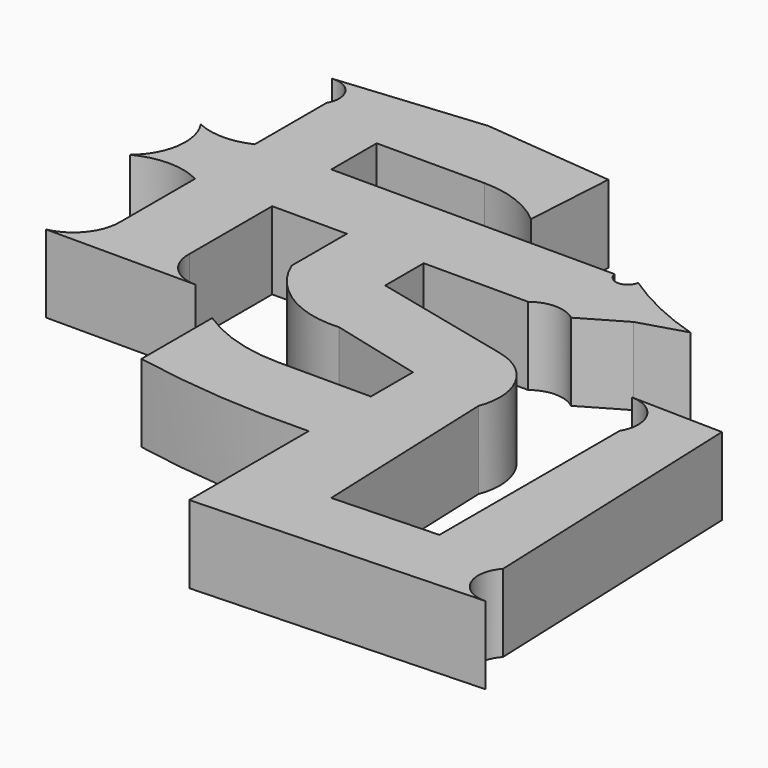
from build123d import *

# Parameters (mm, degrees)
F1_DEPTH = 14.224


with BuildPart() as f1:
    # F0 (on Top) → F1 (new body)
    with BuildSketch(Plane.XY):
        with BuildLine():
            Line((-10.127848, 43.296553), (-9.115064, 59.754308))
            Line((-9.115064, 59.754308), (-32.915507, 62.033072))
            Line((-32.915507, 62.033072), (-59.501108, 59.501108))
            ThreePointArc((-59.501108, 59.501108), (-55.542844, 57.573082), (-55.449966, 53.171206))
            Line((-55.449966, 53.171206), (-55.449966, 36.713451))
            ThreePointArc((-55.449966, 36.713451), (-60.387293, 35.617261), (-65.324619, 36.713451))
            ThreePointArc((-65.324619, 36.713451), (-63.738246, 29.492092), (-67.350194, 23.040855))
            ThreePointArc((-67.350194, 23.040855), (-61.40008, 24.486692), (-55.449966, 23.040855))
            Line((-55.449966, 23.040855), (-55.449966, 5.823513))
            ThreePointArc((-55.449966, 5.823513), (-57.376818, 0.42562), (-62.286269, -2.531962))
            Line((-62.286269, -2.531962), (-34.941077, -2.531962))
            ThreePointArc((-34.941077, -2.531962), (-39.686396, -0.513738), (-41.524179, 4.304335))
            Line((-41.524179, 4.304335), (-41.524179, 23.294052))
            Line((-41.524179, 23.294052), (-27.851583, 23.294052))
            Line((-27.851583, 23.294052), (-27.851583, 10.634242))
            ThreePointArc((-27.851583, 10.634242), (-20.962224, 2.533472), (-10.63424, 0))
            Line((-10.63424, 0), (6.329905, -4.304335))
            Line((6.329905, -4.304335), (6.329905, -13.925791))
            Line((6.329905, -13.925791), (-10.63424, -13.925791))
            ThreePointArc((-10.63424, -13.925791), (-18.964741, -12.696939), (-26.585601, -9.115064))
            Line((-26.585601, -9.115064), (-26.585601, -25.319621))
            ThreePointArc((-26.585601, -25.319621), (-10.325346, -27.500204), (6.076708, -27.851582))
            Line((6.076708, -27.851582), (6.076708, -55.19677))
            Line((6.076708, -55.19677), (58.741521, -53.171206))
            ThreePointArc((58.741521, -53.171206), (53.457994, -49.925807), (54.437183, -43.802943))
            Line((54.437183, -43.802943), (52.411616, 8.861868))
            Line((52.411616, 8.861868), (35.707628, 9.202845))
            ThreePointArc((35.707628, 9.202845), (40.89498, 6.062472), (40.764589, 0))
            Line((40.764589, 0), (40.764589, -41.270979))
            Line((40.764589, -41.270979), (21.530654, -42.010745))
            Line((21.530654, -42.010745), (20.16781, -6.576743))
            ThreePointArc((20.16781, -6.576743), (19.622446, 2.526197), (12.406613, 8.102279))
            Line((12.406613, 8.102279), (-13.558293, 14.219645))
            Line((-13.558293, 14.219645), (-13.558293, 23.040855))
            Line((-13.558293, 23.040855), (5.570316, 23.040855))
            ThreePointArc((5.570316, 23.040855), (9.494858, 24.410603), (13.419399, 23.040855))
            Line((13.419399, 23.040855), (21.26848, 27.598385))
            Line((21.26848, 27.598385), (29.623957, 30.130347))
            ThreePointArc((29.623957, 30.130347), (21.62589, 33.222018), (14.178989, 37.473038))
            ThreePointArc((14.178989, 37.473038), (12.02682, 35.606476), (9.874651, 37.473038))
            Line((9.874651, 37.473038), (-42.030569, 37.473038))
            Line((-42.030569, 37.473038), (-42.030569, 47.854081))
            Line((-42.030569, 47.854081), (-22.281267, 47.854081))
            ThreePointArc((-22.281267, 47.854081), (-15.791339, 46.677234), (-10.127848, 43.296553))
        make_face()
    extrude(amount=F1_DEPTH)


solid = f1.part
